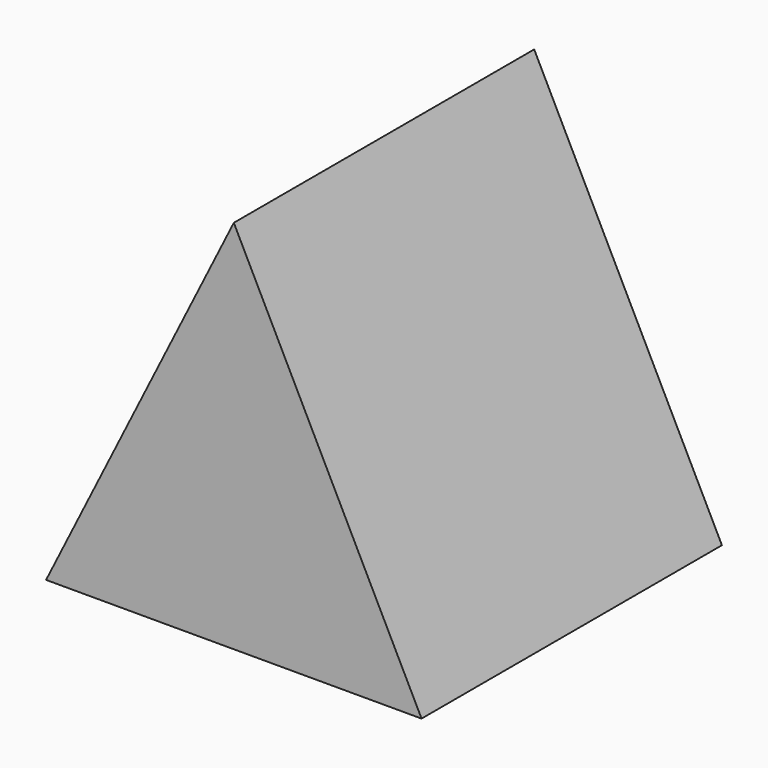
from build123d import *

# Parameters (mm, degrees)
F0_W     = 50.8
F0_H     = 50.8
F1_DEPTH = 50.8
F3_DEPTH = 76.2
F5_DEPTH = 76.2


with BuildPart() as f1:
    # F0 (on Top) → F1 (new body)
    with BuildSketch(Plane.XY):
        Rectangle(F0_W, F0_H)
    extrude(amount=F1_DEPTH)

    # F2 (on face) → F3 (cut)
    with BuildSketch(Plane.XZ.offset(25.4)):
        Polygon((-25.4, 0), (0, 50.8), (-25.4, 50.8), align=None)
    extrude(amount=-F3_DEPTH, mode=Mode.SUBTRACT)

    # F4 (on face) → F5 (cut)
    with BuildSketch(Plane.XZ.offset(25.4)):
        Polygon((25.4, 50.8), (0, 50.8), (25.4, 0), align=None)
    extrude(amount=-F5_DEPTH, mode=Mode.SUBTRACT)


solid = f1.part
